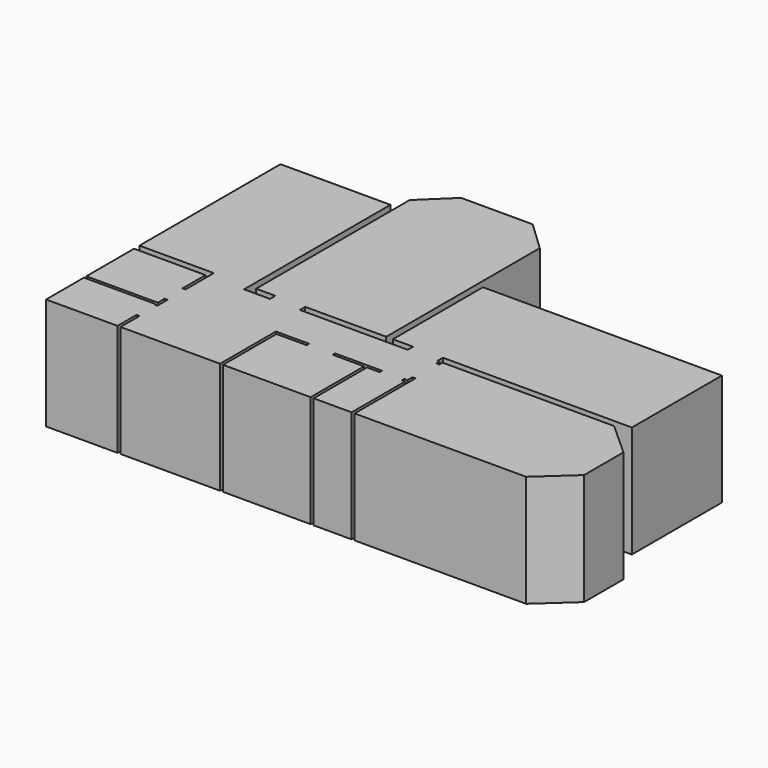
from build123d import *

# Parameters (mm, degrees)
F1_DEPTH = 3000


with BuildPart() as f1:
    # F0 (on Top) → F1 (new body)
    with BuildSketch(Plane.XY):
        Polygon((-2950, 0), (-953.190012, 0), (-953.190012, -180), (-953.190012, -950.215364), (-1033.190012, -950.215364), (-1033.190012, -180), (-2950, -180), (-2950, -1780), (-1033.190012, -1780), (-1033.190012, -1550.215364), (-953.190012, -1550.215364), (-953.190012, -1889.709616), (-1033.190012, -1889.709616), (-1033.190012, -1860), (-2950, -1860), (-2950, -3130), (-1033.190012, -3130), (-1033.190012, -2489.709616), (-953.190012, -2489.709616), (-953.190012, -3130), (0, -3130), (1716.809988, -3130), (1716.809988, -1258.421063), (2606.749535, -1258.421063), (2606.749535, -1338.421063), (1796.809988, -1338.421063), (1796.809988, -3130), (4146.809988, -3130), (4146.809988, -1338.421063), (3306.749535, -1338.421063), (3306.749535, -1258.421063), (4561.03754, -1258.421063), (4561.03754, -1338.421063), (4226.809988, -1338.421063), (4226.809988, -3130), (5246.809988, -3130), (5246.809988, -1338.421063), (5161.03754, -1338.421063), (5161.03754, -1258.421063), (5246.809988, -1258.421063), (5246.809988, -1088.160115), (5326.809988, -1088.160115), (5326.809988, -3130), (9926.809988, -3130), (10826.809988, -2310), (10826.809988, -990), (9926.809988, -180), (5326.809988, -180), (5326.809988, -288.160115), (5246.809988, -288.160115), (5246.809988, -180), (5191.337872, -180), (5191.337872, 0), (10260, 0), (10260, 3020), (3850, 3020), (3850, 0), (4391.337872, 0), (4391.337872, -180), (1498.349357, -180), (1498.349357, 0), (3670, 0), (3670, 5150), (2880, 5900), (960, 5900), (180, 5150), (180, 0), (698.349357, 0), (698.349357, -180), (0, -180), (0, 0), (0, 4730), (-2950, 4730), align=None)
    extrude(amount=F1_DEPTH)


solid = f1.part
